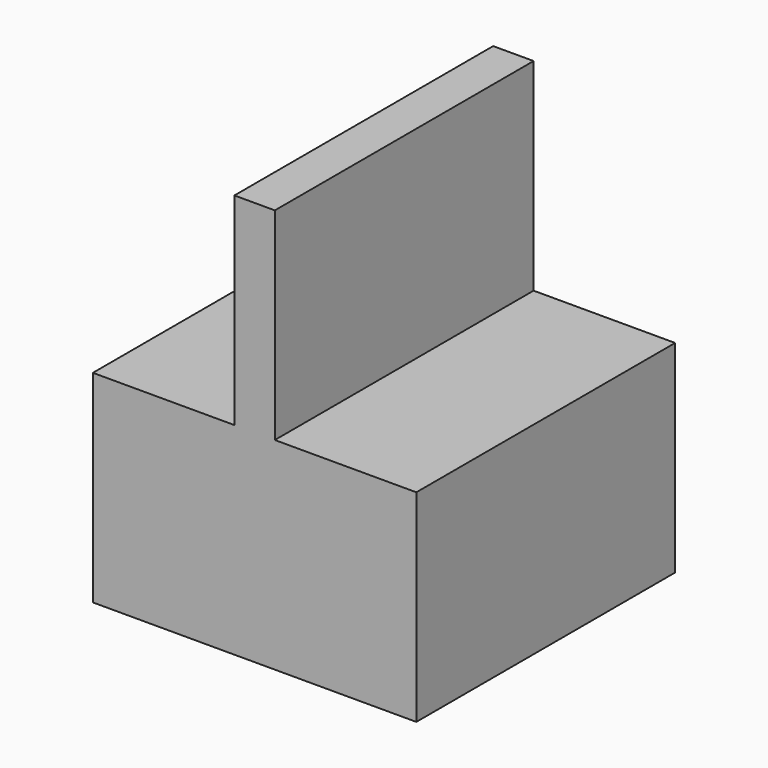
from build123d import *

# Parameters (mm, degrees)
BOX002_W     = 10
BOX002_H     = 10
BOX002_DEPTH = 8
BOX001_W     = 2
BOX001_H     = 16
BOX001_DEPTH = 10
BOX_W        = 16
BOX_H        = 16
BOX_DEPTH    = 10


with BuildPart() as cube002:
    # Box002 → Box002 (new body)
    with BuildSketch(Plane(origin=(-5, -5, 0), x_dir=(1, 0, 0), z_dir=(0, 0, 1))):
        with Locations((5, 5)):
            Rectangle(BOX002_W, BOX002_H)
    extrude(amount=BOX002_DEPTH)


with BuildPart() as cube001:
    # Box001 → Box001 (new body)
    with BuildSketch(Plane(origin=(-1, -8, 10), x_dir=(1, 0, 0), z_dir=(0, 0, 1))):
        with Locations((1, 8)):
            Rectangle(BOX001_W, BOX001_H)
    extrude(amount=BOX001_DEPTH)


with BuildPart() as cut:
    # Box → Box (new body)
    with BuildSketch(Plane(origin=(-8, -8, 0), x_dir=(1, 0, 0), z_dir=(0, 0, 1))):
        with Locations((8, 8)):
            Rectangle(BOX_W, BOX_H)
    extrude(amount=BOX_DEPTH)

    # Fusion: union Cube001
    add(cube001.part)

    # Cut: cut Cube002
    add(cube002.part, mode=Mode.SUBTRACT)


solid = cut.part
